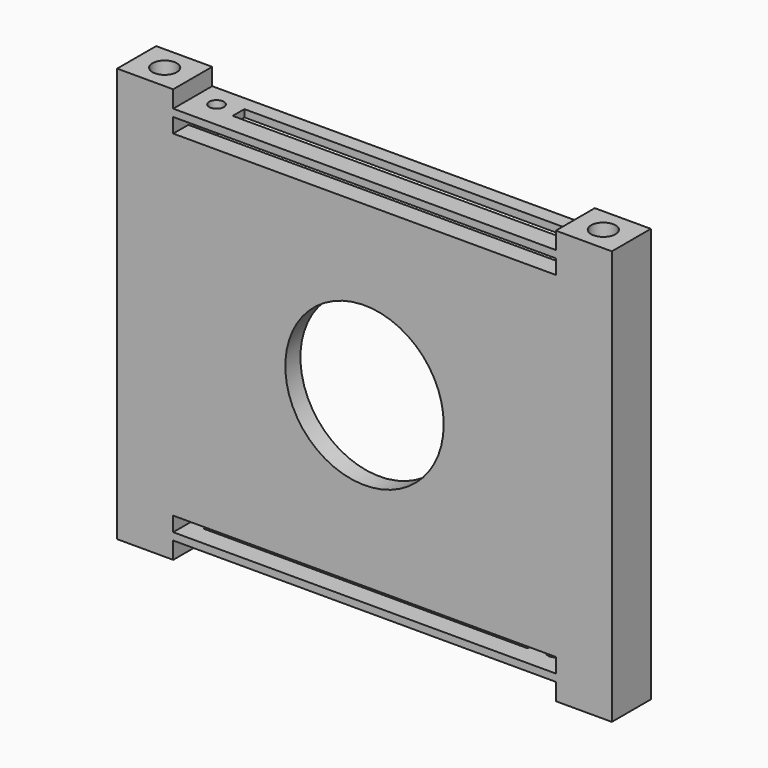
from build123d import *

# Parameters (mm, degrees)
F0_W      = 101.5
F0_H      = 85
F1_DEPTH  = 15.875
F2_R      = 16.25
F3_DEPTH  = 25
F4_W      = 101.5
F4_H      = 85
F5_DEPTH  = 5.875
F7_DEPTH  = 12
F8_W      = 78.5
F8_H      = 10
F9_DEPTH  = 3.5
F10_W     = 78.5
F10_H     = 10
F11_DEPTH = 3.5
F12_W     = 78.5
F12_H     = 3
F13_DEPTH = 25
F14_W     = 78.5
F14_H     = 17.569206
F15_DEPTH = 200
F16_W     = 78.5
F16_H     = 75
F17_DEPTH = 6.125
F18_R     = 1.5
F18_W     = 66.5
F18_H     = 3
F19_DEPTH = 2
F20_R     = 1.5
F20_W     = 66.5
F20_H     = 3
F21_DEPTH = 2
F22_R     = 2.5
F23_DEPTH = 10
F24_R     = 2.5
F25_DEPTH = 10
F26_R     = 2.5
F27_DEPTH = 5
F28_R     = 2.5
F29_DEPTH = 5
F30_W     = 91.57778
F30_H     = 6.951566
F30_W_2   = 93.047712
F30_H_2   = 9.166792
F31_DEPTH = 5.875


with BuildPart() as f1:
    # F0 (on Front) → F1 (new body)
    with BuildSketch(Plane.XZ):
        Rectangle(F0_W, F0_H)
    extrude(amount=F1_DEPTH)

    # F2 (on face) → F3 (cut)
    with BuildSketch(Plane.XZ.offset(15.875)):
        Circle(F2_R)
    extrude(amount=-F3_DEPTH, mode=Mode.SUBTRACT)

    # F4 (on face) → F5 (cut)
    with BuildSketch(Plane(origin=(0, 0, 0), x_dir=(-1, 0, 0), z_dir=(0, 1, 0))):
        Rectangle(F4_W, F4_H)
        with BuildLine():
            Line((-45.75, -31), (-45.75, 31))
            ThreePointArc((-45.75, 31), (-43.846194, 35.596194), (-39.25, 37.5))
            Line((-39.25, 37.5), (39.25, 37.5))
            ThreePointArc((39.25, 37.5), (43.846194, 35.596194), (45.75, 31))
            Line((45.75, 31), (45.75, -31))
            ThreePointArc((45.75, -31), (43.846194, -35.596194), (39.25, -37.5))
            Line((39.25, -37.5), (-39.25, -37.5))
            ThreePointArc((-39.25, -37.5), (-43.846194, -35.596194), (-45.75, -31))
        make_face(mode=Mode.SUBTRACT)
    extrude(amount=-F5_DEPTH, mode=Mode.SUBTRACT)

    # F6 (on face) → F7 (cut)
    with BuildSketch(Plane(origin=(0, 0, 0), x_dir=(-1, 0, 0), z_dir=(0, 1, 0))):
        with BuildLine():
            ThreePointArc((-36.25, 34.5), (-40.846194, 32.596194), (-42.75, 28))
            Line((-42.75, 28), (-42.75, -28))
            ThreePointArc((-42.75, -28), (-40.846194, -32.596194), (-36.25, -34.5))
            Line((-36.25, -34.5), (36.25, -34.5))
            ThreePointArc((36.25, -34.5), (40.846194, -32.596194), (42.75, -28))
            Line((42.75, -28), (42.75, 28))
            ThreePointArc((42.75, 28), (40.846194, 32.596194), (36.25, 34.5))
            Line((36.25, 34.5), (-36.25, 34.5))
        make_face()
    extrude(amount=-F7_DEPTH, mode=Mode.SUBTRACT)

    # F8 (on face) → F9 (cut)
    with BuildSketch(Plane.XY.offset(42.5)):
        with Locations((0, -10.875)):
            Rectangle(F8_W, F8_H)
    extrude(amount=-F9_DEPTH, mode=Mode.SUBTRACT)

    # F10 (on face) → F11 (cut)
    with BuildSketch(Plane(origin=(0, 0, -42.5), x_dir=(1, 0, 0), z_dir=(0, 0, -1))):
        with Locations((0, 10.875)):
            Rectangle(F10_W, F10_H)
    extrude(amount=-F11_DEPTH, mode=Mode.SUBTRACT)

    # F12 (on face) → F13 (cut)
    with BuildSketch(Plane.XZ.offset(15.875)):
        with Locations((0, 36)):
            Rectangle(F12_W, F12_H)
        with Locations((0, -36)):
            Rectangle(F12_W, F12_H)
    extrude(amount=-F13_DEPTH, mode=Mode.SUBTRACT)

    # F14 (on face) → F15 (cut)
    with BuildSketch(Plane.XY.offset(39)):
        with Locations((0, 2.909603)):
            Rectangle(F14_W, F14_H)
    extrude(amount=-F15_DEPTH, mode=Mode.SUBTRACT)

    # F16 (on face) → F17 (cut)
    with BuildSketch(Plane(origin=(0, -5.875, 0), x_dir=(-1, 0, 0), z_dir=(0, 1, 0))):
        Rectangle(F16_W, F16_H)
    extrude(amount=-F17_DEPTH, mode=Mode.SUBTRACT)

    # F18 (on face) → F19 (cut)
    with BuildSketch(Plane.XY.offset(39)):
        with Locations((-34.75, -10.375)):
            Circle(F18_R)
        with Locations((3, -10.375)):
            Rectangle(F18_W, F18_H)
    extrude(amount=-F19_DEPTH, mode=Mode.SUBTRACT)

    # F20 (on face) → F21 (cut)
    with BuildSketch(Plane(origin=(0, 0, -39), x_dir=(1, 0, 0), z_dir=(0, 0, -1))):
        with Locations((34.75, 10.375)):
            Circle(F20_R)
        with Locations((-3, 10.375)):
            Rectangle(F20_W, F20_H)
    extrude(amount=-F21_DEPTH, mode=Mode.SUBTRACT)

    # F22 (on face) → F23 (cut)
    with BuildSketch(Plane(origin=(0, 0, -42.5), x_dir=(1, 0, 0), z_dir=(0, 0, -1))):
        with Locations((-45, 10.875)):
            Circle(F22_R)
    extrude(amount=-F23_DEPTH, mode=Mode.SUBTRACT)

    # F24 (on face) → F25 (cut)
    with BuildSketch(Plane(origin=(0, 0, -42.5), x_dir=(1, 0, 0), z_dir=(0, 0, -1))):
        with Locations((45, 10.875)):
            Circle(F24_R)
    extrude(amount=-F25_DEPTH, mode=Mode.SUBTRACT)

    # F26 (on face) → F27 (cut)
    with BuildSketch(Plane.XY.offset(42.5)):
        with Locations((-45, -10.875)):
            Circle(F26_R)
    extrude(amount=-F27_DEPTH, mode=Mode.SUBTRACT)

    # F28 (on face) → F29 (cut)
    with BuildSketch(Plane.XY.offset(42.5)):
        with Locations((45, -10.875)):
            Circle(F28_R)
    extrude(amount=-F29_DEPTH, mode=Mode.SUBTRACT)

    # F30 (on face) → F31 (cut)
    with BuildSketch(Plane(origin=(0, 0, 0), x_dir=(-1, 0, 0), z_dir=(0, 1, 0))):
        with Locations((0.03889, 34.475783)):
            Rectangle(F30_W, F30_H)
        with Locations((0.773856, -35.583396)):
            Rectangle(F30_W_2, F30_H_2)
    extrude(amount=-F31_DEPTH, mode=Mode.SUBTRACT)


solid = f1.part
